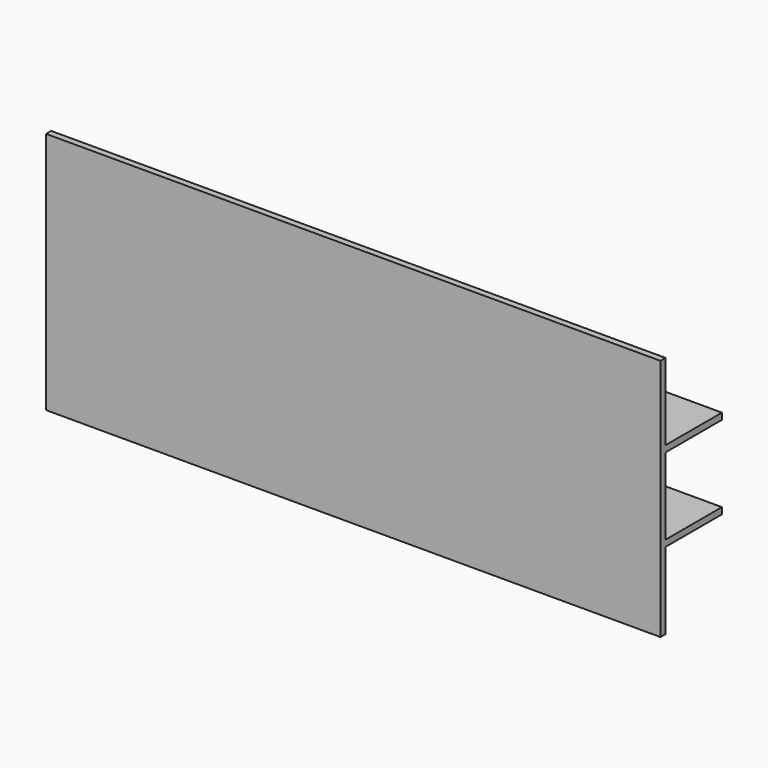
from build123d import *

# Parameters (mm, degrees)
F0_W     = 12.7
F0_H     = 152.4
F1_DEPTH = 1219.2
F2_DEPTH = 38.1


with BuildPart() as f1:
    # F0 (on Right) → F1 (new body)
    with BuildSketch(Plane.YZ):
        Polygon((0, 330.2), (0, 177.8), (12.7, 177.8), (12.7, 238.218463), (12.7, 292.1), (12.7, 330.2), align=None)
        Polygon((0, 177.8), (0, 165.1), (12.7, 165.1), (152.4, 165.1), (152.4, 177.8), (127, 177.8), (73.118463, 177.8), (12.7, 177.8), align=None)
        Polygon((0, 165.1), (0, 12.7), (12.7, 12.7), (12.7, 73.118463), (12.7, 127), (12.7, 165.1), align=None)
        Polygon((0, 12.7), (0, 0), (12.7, 0), (152.4, 0), (152.4, 12.7), (127, 12.7), (73.118463, 12.7), (12.7, 12.7), align=None)
        with Locations((6.35, -76.2)):
            Rectangle(F0_W, F0_H)
    extrude(amount=F1_DEPTH)

    # F0 (on Right) → F2 (join)
    with BuildSketch(Plane.YZ):
        Polygon((12.7, 238.218463), (73.118463, 177.8), (127, 177.8), (12.7, 292.1), align=None)
        Polygon((12.7, 73.118463), (73.118463, 12.7), (127, 12.7), (12.7, 127), align=None)
    extrude(amount=F2_DEPTH)


solid = f1.part
